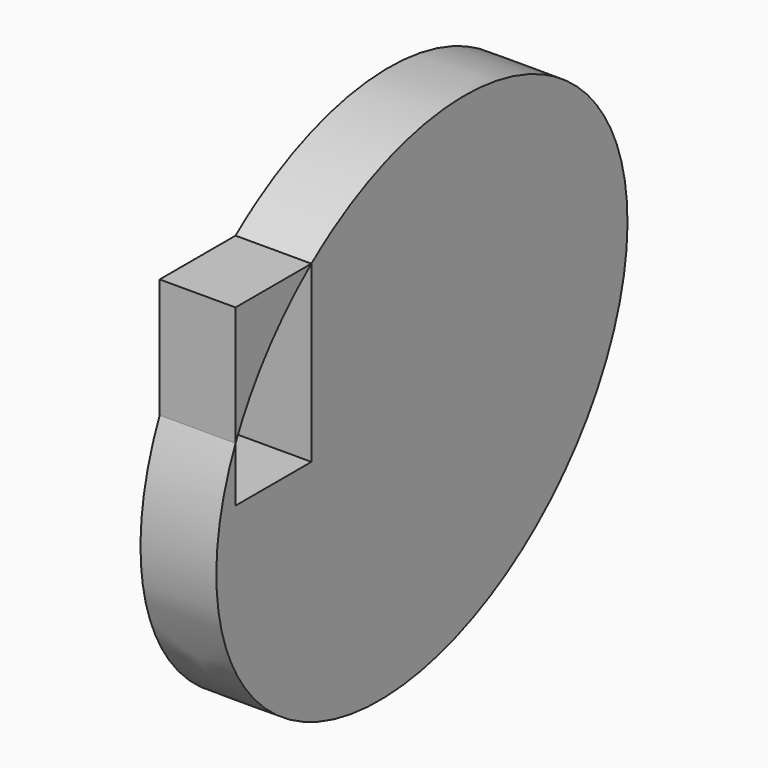
from build123d import *

# Parameters (mm, degrees)
F1_DEPTH = 25.4


with BuildPart() as f1:
    # F0 (on Right) → F1 (new body)
    with BuildSketch(Plane.YZ):
        with BuildLine():
            add(Edge.make_bspline(
                [(-43.520264, 58.423389), (-64.68095, 41.66684), (-75.265124, 18.374244)],
                knots=[4.712389, 4.712389, 4.712389, 5.280097, 5.280097, 5.280097], degree=2, weights=[1, 0.959983, 1]))
            Line((-43.520264, 58.423389), (-75.265124, 58.423389))
            Line((-75.265124, 58.423389), (-75.265124, 18.374244))
        make_face()
        with BuildLine():
            add(Edge.make_bspline(
                [(-75.265124, 18.374244), (-126.276743, -93.887043), (-5.927814, -81.450634), (114.421116, -69.014225), (86.443579, 35.084618), (58.466042, 139.18346), (-43.520264, 58.423389)],
                knots=[5.280097, 5.280097, 5.280097, 7.185256, 7.185256, 9.090415, 9.090415, 10.995574, 10.995574, 10.995574], degree=2, weights=[1, 0.579583, 1, 0.579583, 1, 0.579583, 1]))
            Line((-43.520264, 58.423389), (-43.520264, 0))
            Line((-43.520264, 0), (-75.265124, 0))
            Line((-75.265124, 0), (-75.265124, 18.374244))
        make_face()
    extrude(amount=F1_DEPTH)


solid = f1.part
